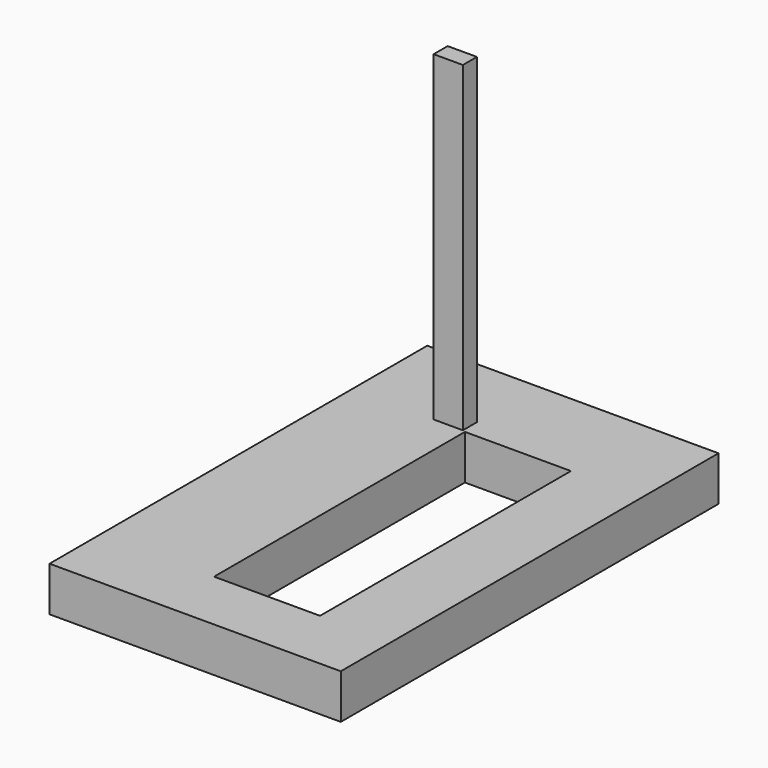
from build123d import *

# Parameters (mm, degrees)
F0_W      = 254
F0_H      = 152.4
F1_DEPTH  = 2794
F0_W_2    = 2530.4474830627
F0_H_2    = 4101.9884347916
F0_W_3    = 920.75
F0_H_3    = 2724.15
F1_FACE_W = 254
F1_FACE_H = 152.4
F2_DEPTH  = 387.35


with BuildPart() as f1:
    # F0 (on Top) → F1 (new body)
    with BuildSketch(Plane.XY):
        with Locations((-1073.15, 85.725)):
            Rectangle(F0_W, F0_H)
    extrude(amount=F1_DEPTH)

    # F0 (on Top) + F1_face (on face) → F2 (join)
    with BuildSketch(Plane.XY):
        with Locations((-646.3348865509, -1221.6488718987)):
            Rectangle(F0_W_2, F0_H_2)
        with Locations((-460.375, -1362.075)):
            Rectangle(F0_W_3, F0_H_3, mode=Mode.SUBTRACT)
        with Locations((-1073.15, 85.725)):
            Rectangle(F0_W, F0_H, mode=Mode.SUBTRACT)
        with Locations((-646.3348865509, -1221.6488718987)):
            Rectangle(F0_W_2, F0_H_2)
        with Locations((-460.375, -1362.075)):
            Rectangle(F0_W_3, F0_H_3, mode=Mode.SUBTRACT)
        with Locations((-1073.15, 85.725)):
            Rectangle(F0_W, F0_H, mode=Mode.SUBTRACT)
    with BuildSketch(Plane(origin=(-1073.15, 85.725, 2794), x_dir=(1, 0, 0), z_dir=(0, 0, 1))):
        Rectangle(F1_FACE_W, F1_FACE_H)
    extrude(amount=-F2_DEPTH)


solid = f1.part
